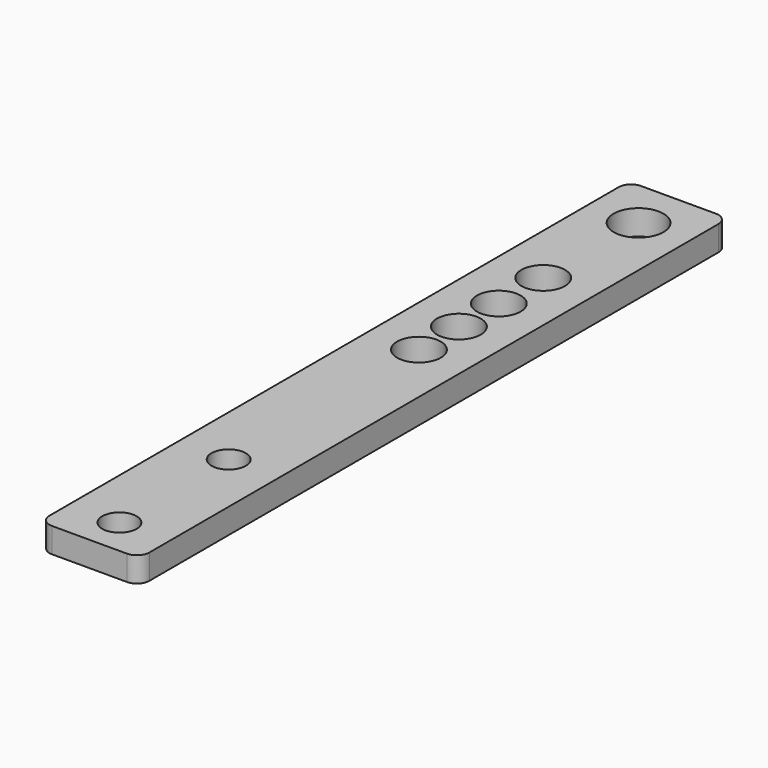
from build123d import *

# Parameters (mm, degrees)
F0_R     = 8.73125
F0_R_2   = 11.11631
F0_R_3   = 11.1125
F0_R_4   = 12.7
F1_DEPTH = 12.7


with BuildPart() as f1:
    # F0 (on Top) → F1 (new body)
    with BuildSketch(Plane.XY):
        with BuildLine():
            Line((2.886364, 286.131), (-35.213636, 286.131))
            ThreePointArc((-35.213636, 286.131), (-39.703764, 284.271128), (-41.563636, 279.781))
            Line((-41.563636, 279.781), (-41.563636, -82.169))
            ThreePointArc((-41.563636, -82.169), (-39.703764, -86.659128), (-35.213636, -88.519))
            Line((-35.213636, -88.519), (2.886364, -88.519))
            ThreePointArc((2.886364, -88.519), (7.376492, -86.659128), (9.236364, -82.169))
            Line((9.236364, -82.169), (9.236364, 279.781))
            ThreePointArc((9.236364, 279.781), (7.376492, 284.271128), (2.886364, 286.131))
        make_face()
        with Locations((-16.163636, 0)):
            Circle(F0_R, mode=Mode.SUBTRACT)
        with Locations((-16.163636, -69.469)):
            Circle(F0_R, mode=Mode.SUBTRACT)
        with Locations((-16.163636, 121.031)):
            Circle(F0_R_2, mode=Mode.SUBTRACT)
        with Locations((-16.163636, 146.431)):
            Circle(F0_R_3, mode=Mode.SUBTRACT)
        with Locations((-16.163636, 171.831)):
            Circle(F0_R_3, mode=Mode.SUBTRACT)
        with Locations((-16.163636, 200.0885)):
            Circle(F0_R_3, mode=Mode.SUBTRACT)
        with Locations((-16.163636, 260.731)):
            Circle(F0_R_4, mode=Mode.SUBTRACT)
    extrude(amount=F1_DEPTH)


solid = f1.part
